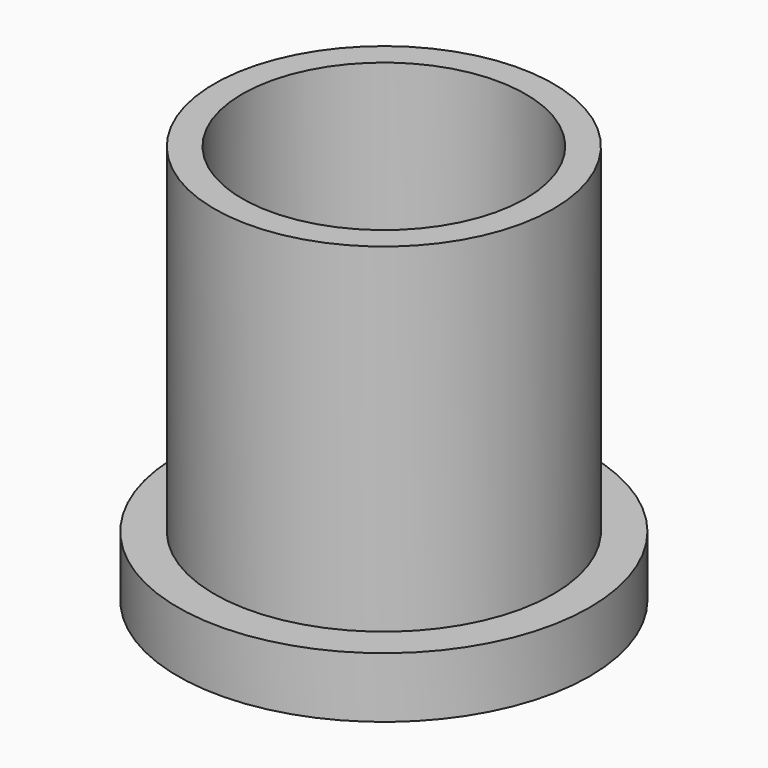
from build123d import *

# Parameters (mm, degrees)
CYLINDER093_R     = 1.5
CYLINDER093_DEPTH = 14
CYLINDER090_R     = 11.7
CYLINDER090_DEPTH = 33
CYLINDER094_R     = 1.5
CYLINDER094_DEPTH = 14
CYLINDER088_R     = 14
CYLINDER088_DEPTH = 33
BOX016_W          = 1
BOX016_H          = 1
BOX016_DEPTH      = 1
CYLINDER084_R     = 17
CYLINDER084_DEPTH = 5


with BuildPart() as obj1:
    # Cylinder093 → Cylinder093 (new body)
    with BuildSketch(Plane(origin=(53.66, 148, -15), x_dir=(1, 0, 0), z_dir=(0, 0, 1))):
        Circle(CYLINDER093_R)
    extrude(amount=CYLINDER093_DEPTH)


with BuildPart() as obj2:
    # Cylinder090 → Cylinder090 (new body)
    with BuildSketch(Plane(origin=(73.66, 148, -10), x_dir=(1, 0, 0), z_dir=(0, 0, 1))):
        Circle(CYLINDER090_R)
    extrude(amount=CYLINDER090_DEPTH)


with BuildPart() as fusion039:
    # Cylinder094 → Cylinder094 (new body)
    with BuildSketch(Plane(origin=(93.66, 148, -14), x_dir=(1, 0, 0), z_dir=(0, 0, 1))):
        Circle(CYLINDER094_R)
    extrude(amount=CYLINDER094_DEPTH)

    # Fusion039: union obj1, obj2
    add(obj1.part)
    add(obj2.part)


with BuildPart() as obj3:
    # Cylinder088 → Cylinder088 (new body)
    with BuildSketch(Plane(origin=(73.66, 148, -10), x_dir=(1, 0, 0), z_dir=(0, 0, 1))):
        Circle(CYLINDER088_R)
    extrude(amount=CYLINDER088_DEPTH)


with BuildPart() as obj4:
    # Box016 → Box016 (new body)
    with BuildSketch(Plane(origin=(63, 136, -8), x_dir=(1, 0, 0), z_dir=(0, 0, 1))):
        with Locations((0.5, 0.5)):
            Rectangle(BOX016_W, BOX016_H)
    extrude(amount=BOX016_DEPTH)


with BuildPart() as obj5:
    # Cylinder084 → Cylinder084 (new body)
    with BuildSketch(Plane(origin=(73.66, 148, -10), x_dir=(1, 0, 0), z_dir=(0, 0, 1))):
        Circle(CYLINDER084_R)
    extrude(amount=CYLINDER084_DEPTH)

    # Fusion038: union obj3, obj4
    add(obj3.part)
    add(obj4.part)

    # Cut010: cut Fusion039
    add(fusion039.part, mode=Mode.SUBTRACT)


with BuildPart() as obj5_1:
    # Cut010 placement: moved
    add(obj5.part.moved(Location((-73.66, -148, -23))))


solid = obj5_1.part
